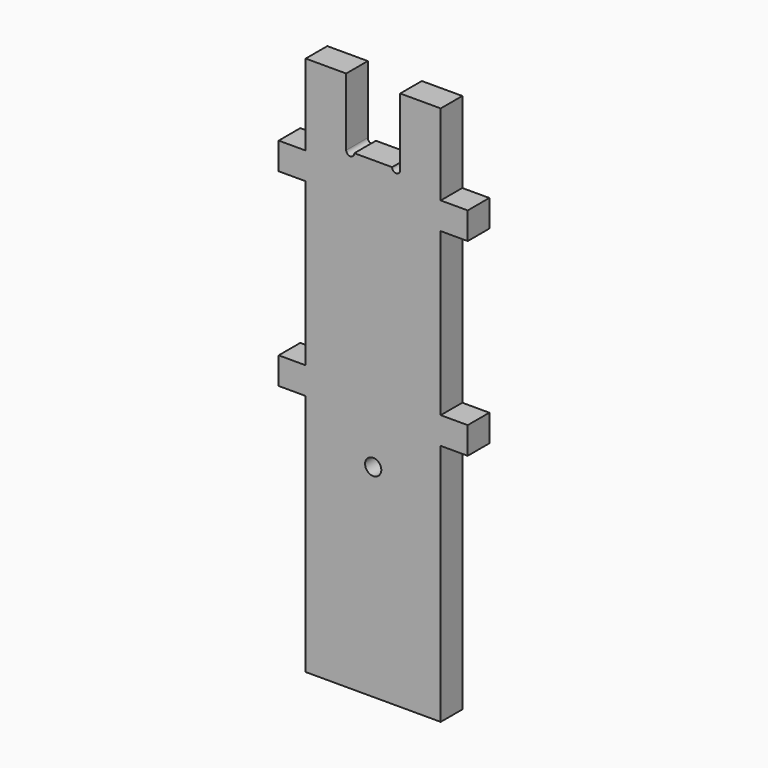
from build123d import *

# Parameters (mm, degrees)
F0_W     = 50
F0_H     = 200
F1_DEPTH = 10
F2_R     = 3
F3_DEPTH = 25
F5_DEPTH = 25
F6_W     = 10
F6_H     = 10
F7_DEPTH = 10


with BuildPart() as f1:
    # F0 (on Front) → F1 (new body)
    with BuildSketch(Plane.XZ):
        Rectangle(F0_W, F0_H)
    extrude(amount=F1_DEPTH)

    # F2 (on face) → F3 (cut)
    with BuildSketch(Plane.XZ.offset(10)):
        with Locations((0, -25)):
            Circle(F2_R)
    extrude(amount=-F3_DEPTH, mode=Mode.SUBTRACT)

    # F4 (on face) → F5 (cut)
    with BuildSketch(Plane.XZ.offset(10)):
        with BuildLine():
            Line((10, 105), (-10, 105))
            Line((-10, 105), (-10, 75))
            ThreePointArc((-10, 75), (-8.5, 73.5), (-7, 75))
            Line((-7, 75), (7, 75))
            ThreePointArc((7, 75), (8.5, 73.5), (10, 75))
            Line((10, 75), (10, 105))
        make_face()
    extrude(amount=-F5_DEPTH, mode=Mode.SUBTRACT)

    # F6 (on face) → F7 (join)
    with BuildSketch(Plane.XZ.offset(10)):
        with Locations((-30, 65)):
            Rectangle(F6_W, F6_H)
        with Locations((30, 65)):
            Rectangle(F6_W, F6_H)
        with Locations((-30, -5)):
            Rectangle(F6_W, F6_H)
        with Locations((30, -5)):
            Rectangle(F6_W, F6_H)
    extrude(amount=-F7_DEPTH)


solid = f1.part
